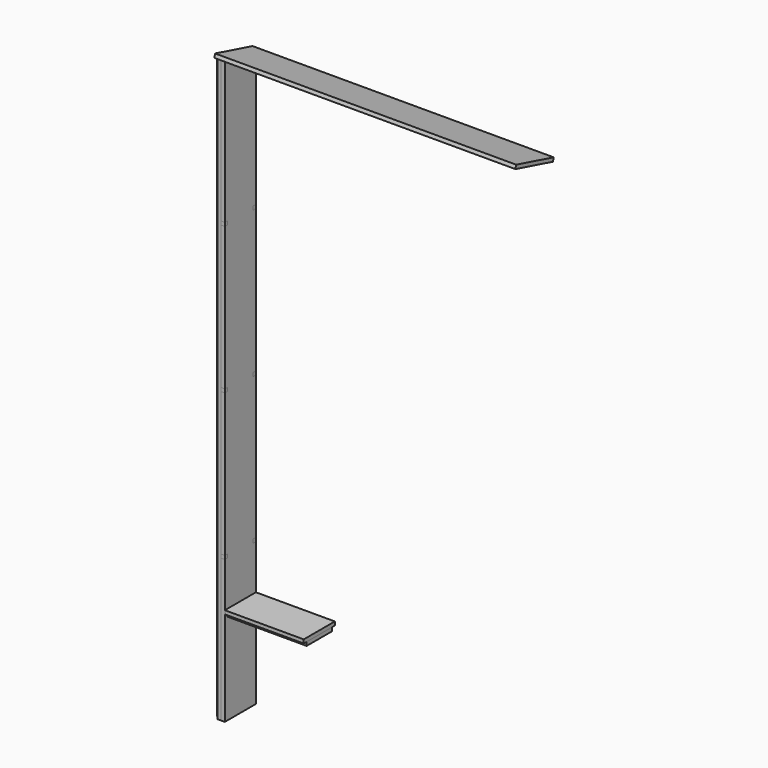
from build123d import *

# Parameters (mm, degrees)
F1_W           = 431.8
F1_H           = 19.05
F2_DEPTH       = 101.6
F1_W_2         = 19.05
F1_H_2         = 3048
F3_DEPTH       = 82.55
F4_DEPTH       = 101.6
F6_DEPTH       = 19.05
F8_DEPTH       = 19.05
F10_DEPTH      = 450.851
F10_DEPTH_BACK = 19.051
F12_DEPTH      = 19.05


with BuildPart() as f2:
    # F1 (on Front) → F2 (new body, symmetric)
    with BuildSketch(Plane.XZ):
        with Locations((273.05, 504.825)):
            Rectangle(F1_W, F1_H)
    extrude(amount=F2_DEPTH, both=True)


with BuildPart() as f3:
    # F1 (on Front) → F3 (new body, symmetric)
    with BuildSketch(Plane.XZ):
        with Locations((28.575, 1524)):
            Rectangle(F1_W_2, F1_H_2)
    extrude(amount=F3_DEPTH, both=True)


with BuildPart() as f3b:
    # F1 (on Front) → F3, piece 2 (new body, symmetric)
    with BuildSketch(Plane.XZ):
        with Locations((273.05, 485.775)):
            Rectangle(F1_W, F1_H)
    extrude(amount=F3_DEPTH, both=True)


with BuildPart() as f4:
    # F1 (on Front) → F4 (new body, symmetric)
    with BuildSketch(Plane.XZ):
        Polygon((38.1, 3048), (38.1, 0), (57.15, 0), (57.15, 457.2), (57.15, 476.25), (57.15, 495.3), (57.15, 514.35), (57.15, 3048), align=None)
    extrude(amount=F4_DEPTH, both=True)


with BuildPart() as f6:
    # F5 (on face) → F6 (new body)
    with BuildSketch(Plane.YZ.offset(57.15)):
        Polygon((-82.55, 371.475), (-101.6, 371.475), (-101.6, 0), (101.6, 0), (101.6, 371.475), (82.55, 371.475), (82.55, 390.525), (101.6, 390.525), (101.6, 1133.475), (82.55, 1133.475), (82.55, 1152.525), (101.6, 1152.525), (101.6, 1895.475), (82.55, 1895.475), (82.55, 1914.525), (101.6, 1914.525), (101.6, 2657.475), (82.55, 2657.475), (82.55, 2676.525), (101.6, 2676.525), (101.6, 3048), (-101.6, 3048), (-101.6, 2676.525), (-82.55, 2676.525), (-82.55, 2657.475), (-101.6, 2657.475), (-101.6, 1914.525), (-82.55, 1914.525), (-82.55, 1895.475), (-101.6, 1895.475), (-101.6, 1152.525), (-82.55, 1152.525), (-82.55, 1133.475), (-101.6, 1133.475), (-101.6, 390.525), (-82.55, 390.525), align=None)
    extrude(amount=F6_DEPTH)


with BuildPart() as f8:
    # F7 (on face) → F8 (new body)
    with BuildSketch(Plane.YZ.offset(57.15)):
        Polygon((-101.6, 747.7125), (-101.6, 0), (-82.55, 0), (82.55, 0), (101.6, 0), (101.6, 747.7125), (82.55, 747.7125), (82.55, 766.7625), (101.6, 766.7625), (101.6, 1514.475), (82.55, 1514.475), (82.55, 1533.525), (101.6, 1533.525), (101.6, 2281.2375), (82.55, 2281.2375), (82.55, 2300.2875), (101.6, 2300.2875), (101.6, 3048), (82.55, 3048), (-82.55, 3048), (-101.6, 3048), (-101.6, 2300.2875), (-82.55, 2300.2875), (-82.55, 2281.2375), (-101.6, 2281.2375), (-101.6, 1533.525), (-82.55, 1533.525), (-82.55, 1514.475), (-101.6, 1514.475), (-101.6, 766.7625), (-82.55, 766.7625), (-82.55, 747.7125), align=None)
    extrude(amount=F8_DEPTH)


with BuildPart() as f10_tool:
    # F9 (on face) → F10 (new body, two sides)
    with BuildSketch(Plane(origin=(38.1, 0, 0), x_dir=(0, -1, 0), z_dir=(-1, 0, 0))) as f10_sk:
        Polygon((-101.6, 2993.552724098), (101.6, 3048), (-101.6, 3048), align=None)
    extrude(amount=-F10_DEPTH)
    extrude(f10_sk.sketch, amount=F10_DEPTH_BACK)


with BuildPart() as f3_1:
    add(f3.part)

    # F10: cut by f10_tool
    add(f10_tool.part, mode=Mode.SUBTRACT)


with BuildPart() as f4_1:
    add(f4.part)

    # F10: cut by f10_tool
    add(f10_tool.part, mode=Mode.SUBTRACT)


with BuildPart() as f6_1:
    add(f6.part)

    # F10: cut by f10_tool
    add(f10_tool.part, mode=Mode.SUBTRACT)


with BuildPart() as f8_1:
    add(f8.part)

    # F10: cut by f10_tool
    add(f10_tool.part, mode=Mode.SUBTRACT)


with BuildPart() as f12:
    # F11 (on face) → F12 (new body)
    with BuildSketch(Plane(origin=(0, 755.1940905122, 2818.4227153675), x_dir=(1, 0, 0), z_dir=(0, 0.2588190451, 0.9659258263))):
        Polygon((38.1, -887.0185134235), (38.1, -908.8344534938), (1612.9, -908.8344534938), (1612.9, -654.8344534938), (38.1, -654.8344534938), (38.1, -676.6503935641), (57.15, -676.6503935641), (57.15, -887.0185134235), align=None)
        Polygon((38.1, -867.2965021866), (38.1, -887.0185134235), (57.15, -887.0185134235), (57.15, -676.6503935641), (38.1, -676.6503935641), (38.1, -696.3724048009), align=None)
    extrude(amount=F12_DEPTH)


solid = Compound([f2.part, f3b.part, f3_1.part, f4_1.part, f6_1.part, f8_1.part, f12.part])
